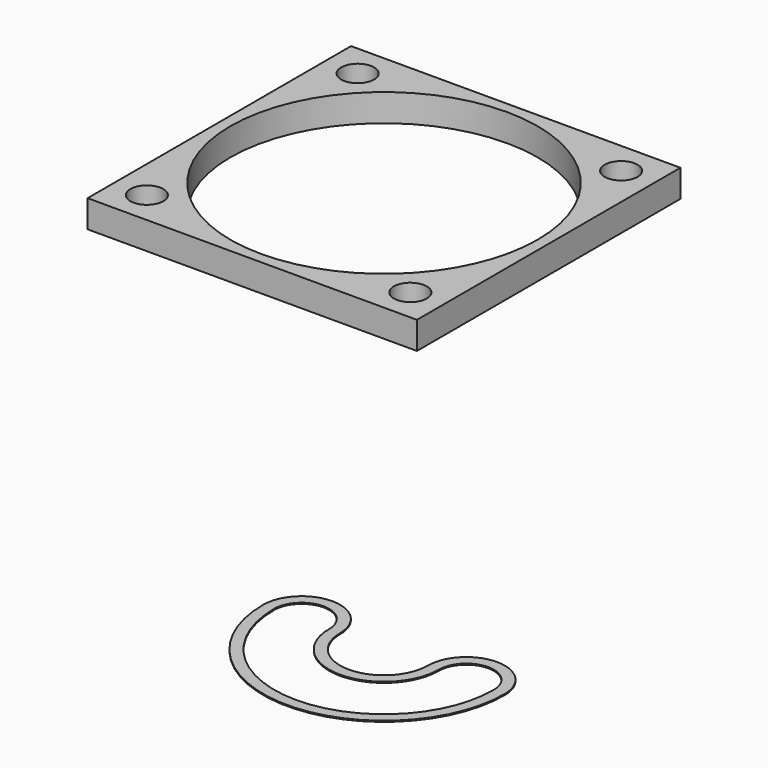
from build123d import *

# Parameters (mm, degrees)
F0_W     = 30
F0_H     = 30
F0_R     = 1.5
F0_R_2   = 14
F1_DEPTH = 2.5
F4_DEPTH = 0.1


with BuildPart() as f1:
    # F0 (on Top) → F1 (new body)
    with BuildSketch(Plane.XY):
        Rectangle(F0_W, F0_H)
        with Locations((-12, -12)):
            Circle(F0_R, mode=Mode.SUBTRACT)
        with Locations((12, -12)):
            Circle(F0_R, mode=Mode.SUBTRACT)
        with Locations((-12, 12)):
            Circle(F0_R, mode=Mode.SUBTRACT)
        Circle(F0_R_2, mode=Mode.SUBTRACT)
        with Locations((12, 12)):
            Circle(F0_R, mode=Mode.SUBTRACT)
    extrude(amount=F1_DEPTH)


with BuildPart() as f4:
    # F3 (on offset) → F4 (new body)
    with BuildSketch(Plane.XY.offset(-35)):
        with BuildLine():
            ThreePointArc((-4, 0), (-7.5, 3.5), (-11, 0))
            ThreePointArc((-11, 0), (0, -11), (11, 0))
            ThreePointArc((11, 0), (7.5, 3.5), (4, 0))
            ThreePointArc((4, 0), (0, -4), (-4, 0))
        make_face()
        with BuildLine():
            ThreePointArc((10, 0), (0, -10), (-10, 0))
            ThreePointArc((-10, 0), (-7.5, 2.5), (-5, 0))
            ThreePointArc((-5, 0), (0, -5), (5, 0))
            ThreePointArc((5, 0), (7.5, 2.5), (10, 0))
        make_face(mode=Mode.SUBTRACT)
    extrude(amount=F4_DEPTH)


solid = Compound([f1.part, f4.part])
